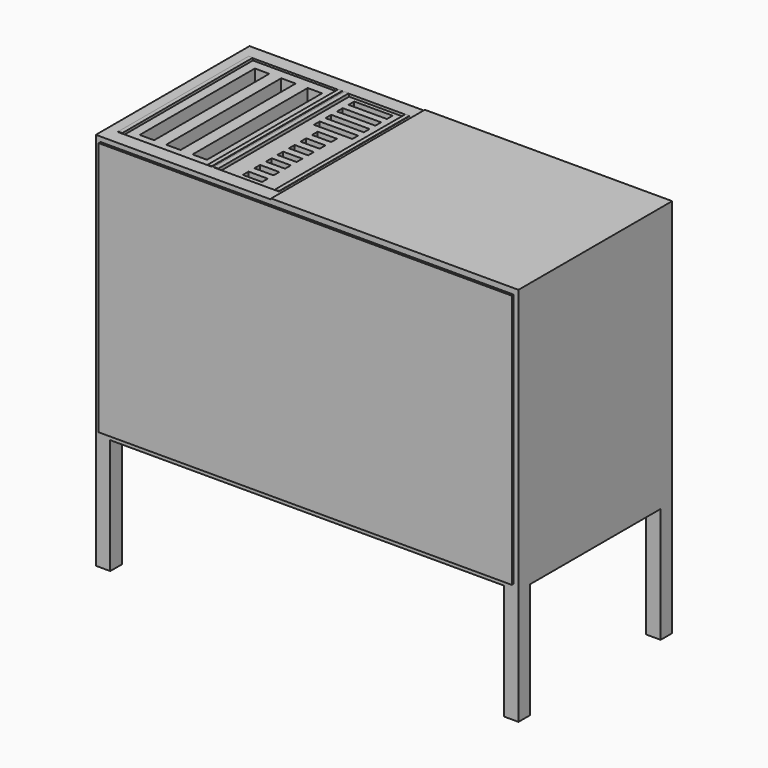
from build123d import *

# Parameters (mm, degrees)
F0_W      = 1117.6
F0_H      = 508
F0_W_2    = 1041.4
F0_H_2    = 431.8
F1_DEPTH  = 38.1
F2_W      = 38.1
F2_H      = 38.1
F3_DEPTH  = 965.2
F5_W      = 1117.6
F5_H      = 508
F5_W_2    = 1041.4
F5_H_2    = 431.8
F6_DEPTH  = 38.1
F7_W      = 431.8
F7_H      = 622.3
F8_DEPTH  = 1.27
F9_W      = 431.8
F9_H      = 622.3
F10_DEPTH = 1.27
F11_W     = 38.1
F11_H     = 38.1
F11_W_2   = 25.4
F11_H_2   = 25.4
F12_DEPTH = 431.8
F13_W     = 654.05
F13_H     = 508
F14_DEPTH = 2.54
F16_DEPTH = 431.8
F17_W     = 144.78
F17_H     = 426.72
F17_W_2   = 50.8
F17_H_2   = 19.05
F17_W_3   = 101.6
F18_DEPTH = 101.6
F19_W     = 1117.6
F19_H     = 508
F20_DEPTH = 2.54
F21_W     = 38.1
F21_H     = 38.1
F22_DEPTH = 431.8
F23_W     = 1092.2
F23_H     = 673.1
F24_DEPTH = 6.35
F27_DEPTH = 431.8
F29_W     = 225.5012
F29_H     = 431.292
F29_W_2   = 38.1
F29_H_2   = 380.492
F30_DEPTH = 120.5992


with BuildPart() as f1:
    # F0 (on Top) → F1 (new body)
    with BuildSketch(Plane.XY):
        Rectangle(F0_W, F0_H)
        Rectangle(F0_W_2, F0_H_2, mode=Mode.SUBTRACT)
    extrude(amount=F1_DEPTH)

    # F2 (on face) → F3 (join)
    with BuildSketch(Plane(origin=(0, 0, 0), x_dir=(1, 0, 0), z_dir=(0, 0, -1))):
        with Locations((-539.75, 234.95)):
            Rectangle(F2_W, F2_H)
        with Locations((539.75, 234.95)):
            Rectangle(F2_W, F2_H)
        with Locations((539.75, -234.95)):
            Rectangle(F2_W, F2_H)
        with Locations((-539.75, -234.95)):
            Rectangle(F2_W, F2_H)
    extrude(amount=F3_DEPTH)

    # F5 (on offset) → F6 (join)
    with BuildSketch(Plane(origin=(0, 0, -660.4), x_dir=(1, 0, 0), z_dir=(0, 0, -1))):
        Rectangle(F5_W, F5_H)
        Rectangle(F5_W_2, F5_H_2, mode=Mode.SUBTRACT)
    extrude(amount=-F6_DEPTH)

    # F7 (on face) → F8 (join)
    with BuildSketch(Plane(origin=(-558.8, 0, 0), x_dir=(0, -1, 0), z_dir=(-1, 0, 0))):
        with Locations((0, -311.15)):
            Rectangle(F7_W, F7_H)
    extrude(amount=-F8_DEPTH)

    # F9 (on face) → F10 (join)
    with BuildSketch(Plane.YZ.offset(558.8)):
        with Locations((0, -311.15)):
            Rectangle(F9_W, F9_H)
    extrude(amount=-F10_DEPTH)

    # F11 (on face) → F12 (join, through all)
    with BuildSketch(Plane(origin=(0, -215.9, 0), x_dir=(-1, 0, 0), z_dir=(0, 1, 0))):
        with Locations((95.25, 19.05)):
            Rectangle(F11_W, F11_H)
        with Locations((279.4, 25.4)):
            Rectangle(F11_W_2, F11_H_2)
    extrude(amount=F12_DEPTH)

    # F13 (on face) → F14 (join)
    with BuildSketch(Plane.XY.offset(38.1)):
        with Locations((231.775, 0)):
            Rectangle(F13_W, F13_H)
    extrude(amount=F14_DEPTH)

    # F15 (on face) → F16 (join, through all)
    with BuildSketch(Plane(origin=(0, -215.9, 0), x_dir=(-1, 0, 0), z_dir=(0, 1, 0))):
        Polygon((104.775, 39.37), (104.775, 38.1), (114.3, 38.1), (114.3, -69.85), (266.7, -69.85), (266.7, 38.1), (276.225, 38.1), (276.225, 39.37), (265.43, 39.37), (265.43, -68.58), (115.57, -68.58), (115.57, 39.37), align=None)
    extrude(amount=F16_DEPTH)

    # F17 (on face) → F18 (join)
    with BuildSketch(Plane.XY.offset(-68.58)):
        with Locations((-190.5, 0)):
            Rectangle(F17_W, F17_H)
        with Locations((-190.5, -187.325)):
            Rectangle(F17_W_2, F17_H_2, mode=Mode.SUBTRACT)
        with Locations((-190.5, -149.225)):
            Rectangle(F17_W_2, F17_H_2, mode=Mode.SUBTRACT)
        with Locations((-190.5, -111.125)):
            Rectangle(F17_W_2, F17_H_2, mode=Mode.SUBTRACT)
        with Locations((-190.5, -73.025)):
            Rectangle(F17_W_2, F17_H_2, mode=Mode.SUBTRACT)
        with Locations((-190.5, -34.925)):
            Rectangle(F17_W_2, F17_H_2, mode=Mode.SUBTRACT)
        with Locations((-190.5, 3.175)):
            Rectangle(F17_W_2, F17_H_2, mode=Mode.SUBTRACT)
        with Locations((-190.5, 41.275)):
            Rectangle(F17_W_2, F17_H_2, mode=Mode.SUBTRACT)
        with Locations((-190.5, 79.375)):
            Rectangle(F17_W_3, F17_H_2, mode=Mode.SUBTRACT)
        with Locations((-190.5, 117.475)):
            Rectangle(F17_W_3, F17_H_2, mode=Mode.SUBTRACT)
        with Locations((-190.5, 155.575)):
            Rectangle(F17_W_3, F17_H_2, mode=Mode.SUBTRACT)
        with Locations((-190.5, 193.675)):
            Rectangle(F17_W_3, F17_H_2, mode=Mode.SUBTRACT)
    extrude(amount=F18_DEPTH)

    # F19 (on face) → F20 (join)
    with BuildSketch(Plane.XY.offset(-622.3)):
        Rectangle(F19_W, F19_H)
    extrude(amount=F20_DEPTH)

    # F21 (on face) → F22 (join, through all)
    with BuildSketch(Plane.XZ.offset(-215.9)):
        with Locations((0, -641.35)):
            Rectangle(F21_W, F21_H)
    extrude(amount=F22_DEPTH)

    # F23 (on face) → F24 (join)
    with BuildSketch(Plane.XZ.offset(254)):
        with Locations((0, -311.15)):
            Rectangle(F23_W, F23_H)
    extrude(amount=F24_DEPTH)

    # F26 (on face) → F27 (join, through all)
    with BuildSketch(Plane.XZ.offset(-215.9)):
        Polygon((-530.1996, 39.3954), (-530.1996, 38.1254), (-520.6746, 38.1254), (-520.6746, -88.8746), (-292.1254, -88.8746), (-292.1254, 38.1254), (-282.6004, 38.1254), (-282.6004, 39.3954), (-293.3954, 39.3954), (-293.3954, -87.6046), (-519.4046, -87.6046), (-519.4046, 39.3954), align=None)
    extrude(amount=F27_DEPTH)


with BuildPart() as f30:
    # F29 (on offset) → F30 (new body, through all)
    with BuildSketch(Plane.XY.offset(-87.5792)):
        with Locations((-406.4, 0)):
            Rectangle(F29_W, F29_H)
        with Locations((-474.7006, 0)):
            Rectangle(F29_W_2, F29_H_2, mode=Mode.SUBTRACT)
        with Locations((-404.8506, 0)):
            Rectangle(F29_W_2, F29_H_2, mode=Mode.SUBTRACT)
        with Locations((-335.0006, 0)):
            Rectangle(F29_W_2, F29_H_2, mode=Mode.SUBTRACT)
    extrude(amount=F30_DEPTH)


solid = Compound([f1.part, f30.part])
